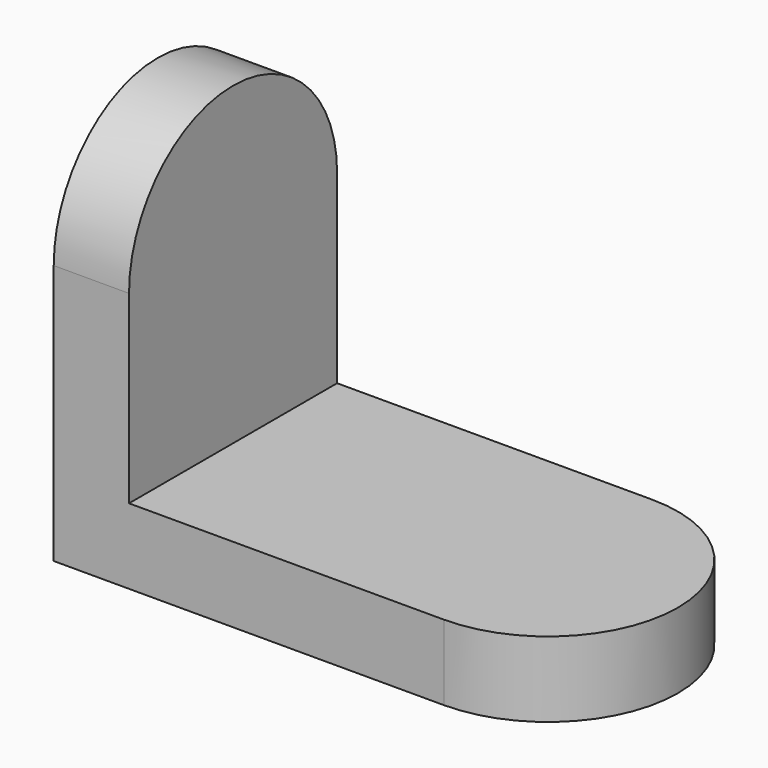
from build123d import *

# Parameters (mm, degrees)
F1_DEPTH = 11
F3_DEPTH = 11


with BuildPart() as f1:
    # F0 (on Top) → F1 (new body)
    with BuildSketch(Plane.XY):
        with BuildLine():
            Line((0, 38), (0, 0))
            Line((0, 0), (57, 0))
            ThreePointArc((57, 0), (76, 19), (57, 38))
            Line((57, 38), (0, 38))
        make_face()
    extrude(amount=F1_DEPTH)

    # F2 (on Right) → F3 (join)
    with BuildSketch(Plane.YZ):
        with BuildLine():
            Line((0, 38), (0, 0))
            Line((0, 0), (38, 0))
            Line((38, 0), (38, 38))
            ThreePointArc((38, 38), (19, 57), (0, 38))
        make_face()
    extrude(amount=F3_DEPTH)


solid = f1.part
